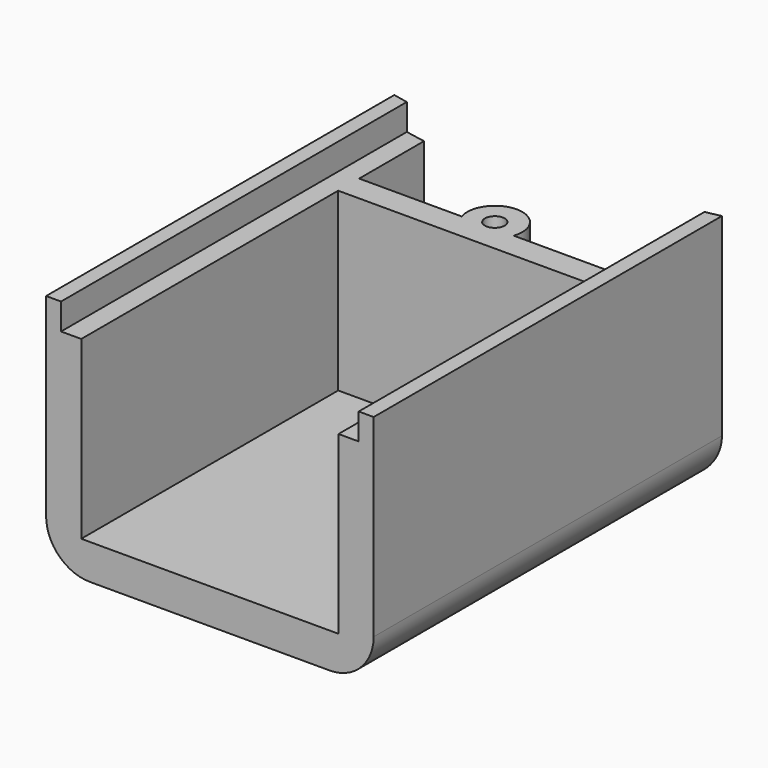
from build123d import *

# Parameters (mm, degrees)
F0_W      = 37.25
F0_H      = 49.5
F1_DEPTH  = 27
F2_W      = 29.25
F2_H      = 23
F3_DEPTH  = 49.501
F4_W      = 2.3
F4_H      = 3
F5_DEPTH  = 49.501
F6_R      = 5
F7_R      = 3.125
F8_DEPTH  = 20
F10_DEPTH = 27.001
F12_DEPTH = 23
F13_W     = 33.85
F13_H     = 3
F14_DEPTH = 12.982547
F15_R     = 1.125
F16_DEPTH = 20


with BuildPart() as f1:
    # F0 (on Top) → F1 (new body)
    with BuildSketch(Plane.XY):
        Rectangle(F0_W, F0_H)
    extrude(amount=F1_DEPTH)

    # F2 (on face) → F3 (cut, through all)
    with BuildSketch(Plane.XZ.offset(24.75)):
        with Locations((0, 15.5)):
            Rectangle(F2_W, F2_H)
    extrude(amount=-F3_DEPTH, mode=Mode.SUBTRACT)

    # F4 (on face) → F5 (cut, through all)
    with BuildSketch(Plane.XZ.offset(24.75)):
        with Locations((-15.775, 25.5)):
            Rectangle(F4_W, F4_H)
        with Locations((15.775, 25.5)):
            Rectangle(F4_W, F4_H)
    extrude(amount=-F5_DEPTH, mode=Mode.SUBTRACT)

    # F6
    f6_edges = [f1.edges().sort_by_distance(p)[0] for p in [
        (18.625, 0, 0),
        (-18.625, 0, 0),
    ]]
    fillet(f6_edges, radius=F6_R)

    # F7 (on face) → F8 (join, through all)
    with BuildSketch(Plane.XY.offset(4)):
        with Locations((0, 15.75)):
            Circle(F7_R)
    extrude(amount=F8_DEPTH)

    # F9 (on face) → F10 (cut, through all)
    with BuildSketch(Plane(origin=(0, 0, 0), x_dir=(1, 0, 0), z_dir=(0, 0, -1))):
        with BuildLine():
            Line((-18.625, -24.75), (18.625, -24.75))
            ThreePointArc((18.625, -24.75), (0, -22.75), (-18.625, -24.75))
        make_face()
    extrude(amount=-F10_DEPTH, mode=Mode.SUBTRACT)

    # F11 (on face) → F12 (join, through all)
    with BuildSketch(Plane.XY.offset(4)):
        Polygon((17.763313, 14.75), (0, 14.75), (-17.661568, 14.75), (-17.661568, 11.768454), (17.763313, 11.768454), align=None)
    extrude(amount=F12_DEPTH)

    # F13 (on face) → F14 (cut, through all)
    with BuildSketch(Plane.XZ.offset(-11.768454)):
        with Locations((0, 25.5)):
            Rectangle(F13_W, F13_H)
    extrude(amount=-F14_DEPTH, mode=Mode.SUBTRACT)

    # F15 (on face) → F16 (cut, through all)
    with BuildSketch(Plane.XY.offset(24)):
        with Locations((0, 15.75)):
            Circle(F15_R)
    extrude(amount=-F16_DEPTH, mode=Mode.SUBTRACT)


solid = f1.part
